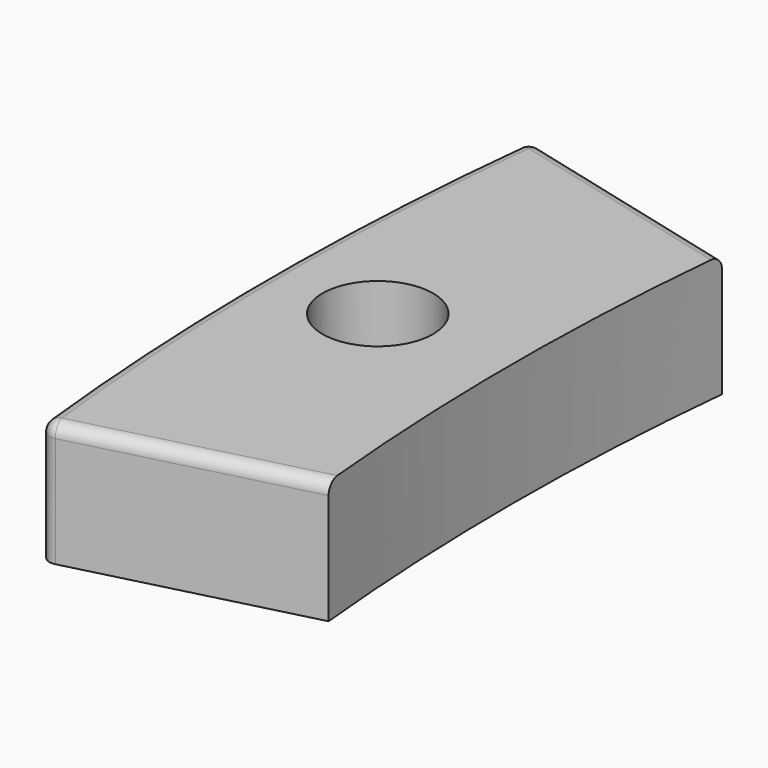
from build123d import *

# Parameters (mm, degrees)
F1_DEPTH = 5
F2_R     = 2.25
F3_DEPTH = 25
F4_R     = 0.5


with BuildPart() as f1:
    # F0 (on Top) → F1 (new body)
    with BuildSketch(Plane.XY):
        with BuildLine():
            ThreePointArc((-9.788721, 22.5), (-10.501256, 10), (-9.788721, -2.5))
            Line((-9.788721, -2.5), (0, 0))
            ThreePointArc((0, 0), (-0.501256, 10), (0, 20))
            Line((0, 20), (-9.788721, 22.5))
        make_face()
    extrude(amount=F1_DEPTH)

    # F2 (on face) → F3 (cut)
    with BuildSketch(Plane.XY.offset(5)):
        with Locations((-6.001256, 10)):
            Circle(F2_R)
    extrude(amount=-F3_DEPTH, mode=Mode.SUBTRACT)

    # F4
    f4_edges = [f1.edges().sort_by_distance(p)[0] for p in [
        (-4.894361, -1.25, 5),
        (-9.788721, -2.5, 2.5),
        (-10.501256, 10, 5),
        (-9.788721, 22.5, 2.5),
        (-4.894361, 21.25, 5),
    ]]
    fillet(f4_edges, radius=F4_R)


solid = f1.part
